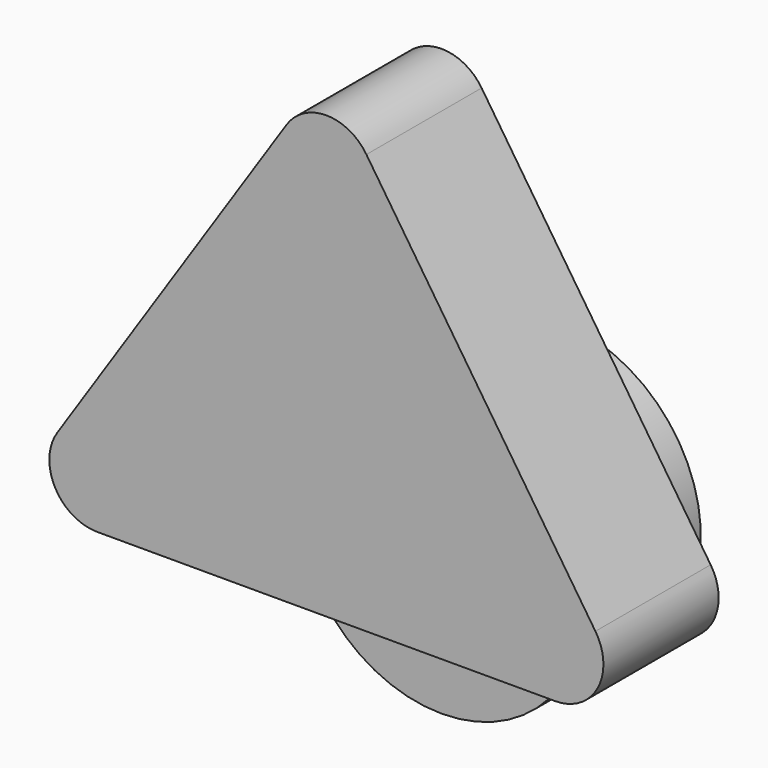
from build123d import *

# Parameters (mm, degrees)
F1_DEPTH = 15
F2_R     = 15
F3_DEPTH = 15
F4_R     = 5
F5_R     = 5


with BuildPart() as f1:
    # F0 (on Front) → F1 (new body)
    with BuildSketch(Plane.XZ):
        Polygon((0, 50), (-33.166248, 0), (33.166248, 0), align=None)
    extrude(amount=F1_DEPTH)

    # F2 (on face) → F3 (join)
    with BuildSketch(Plane(origin=(0, 0, 0), x_dir=(-1, 0, 0), z_dir=(0, 1, 0))):
        Circle(F2_R)
    extrude(amount=F3_DEPTH)

    # F4
    f4_edges = [f1.edges().sort_by_distance(p)[0] for p in [
        (0, -7.5, 50),
    ]]
    fillet(f4_edges, radius=F4_R)

    # F5
    f5_edges = [f1.edges().sort_by_distance(p)[0] for p in [
        (33.166248, -7.5, 0),
        (-33.166248, -7.5, 0),
    ]]
    fillet(f5_edges, radius=F5_R)


solid = f1.part
